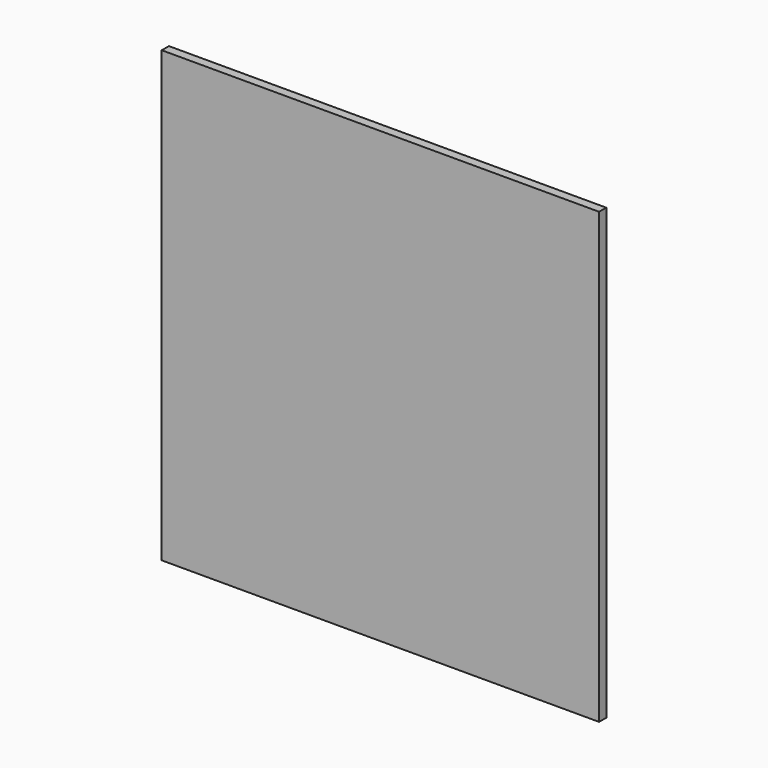
from build123d import *

# Parameters (mm, degrees)
F1_W     = 154.7125577927
F1_H     = 158.8675379753
F1_W_2   = 119.4823682308
F1_H_2   = 121.4367300272
F2_DEPTH = 3.175


with BuildPart() as f2:
    # F1 (on face) → F2 (new body)
    with BuildSketch(Plane.XZ):
        Rectangle(F1_W, F1_H)
        Rectangle(F1_W_2, F1_H_2, mode=Mode.SUBTRACT)
        Rectangle(F1_W_2, F1_H_2)
    extrude(amount=F2_DEPTH)


solid = f2.part
